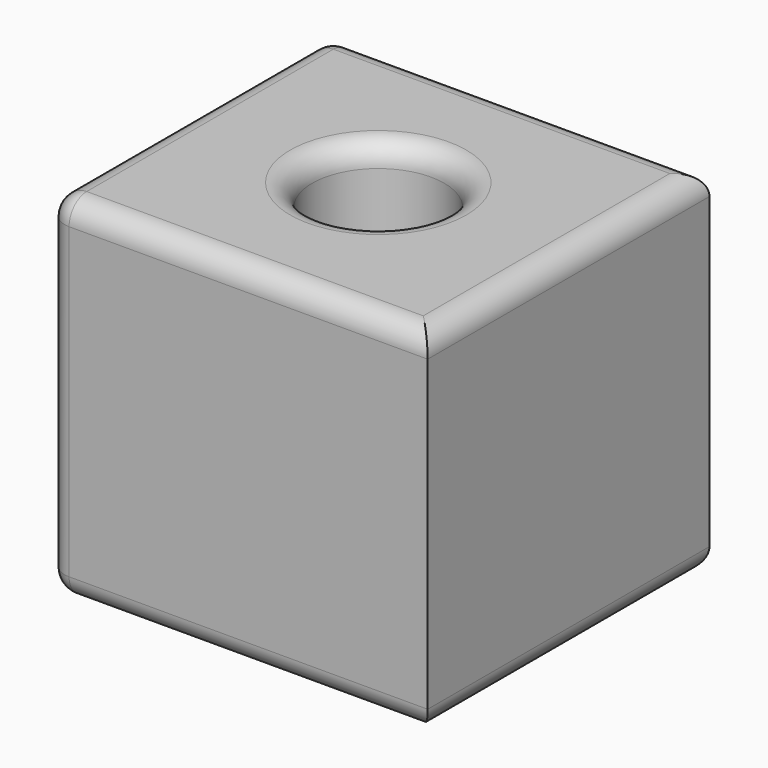
from build123d import *

# Parameters (mm, degrees)
F0_W     = 86.436784
F0_H     = 80
F1_DEPTH = 80
F2_R     = 15
F3_DEPTH = 80.001
F4_R     = 5


with BuildPart() as f1:
    # F0 (on Top) → F1 (new body)
    with BuildSketch(Plane.XY):
        Rectangle(F0_W, F0_H)
    extrude(amount=F1_DEPTH)

    # F2 (on face) → F3 (cut, through all)
    with BuildSketch(Plane.XY.offset(80)):
        Circle(F2_R)
    extrude(amount=-F3_DEPTH, mode=Mode.SUBTRACT)

    # F4
    f4_edges = [f1.edges().sort_by_distance(p)[0] for p in [
        (-43.218392, -40, 40),
        (-43.218392, 0, 0),
        (-43.218392, 40, 40),
        (0, -40, 0),
        (0, 40, 0),
        (43.218392, 0, 0),
        (0, 40, 80),
        (-43.218392, 0, 80),
        (0, -40, 80),
        (43.218392, 0, 80),
        (-15, 0, 80),
        (-15, 0, 0),
    ]]
    fillet(f4_edges, radius=F4_R)


solid = f1.part
